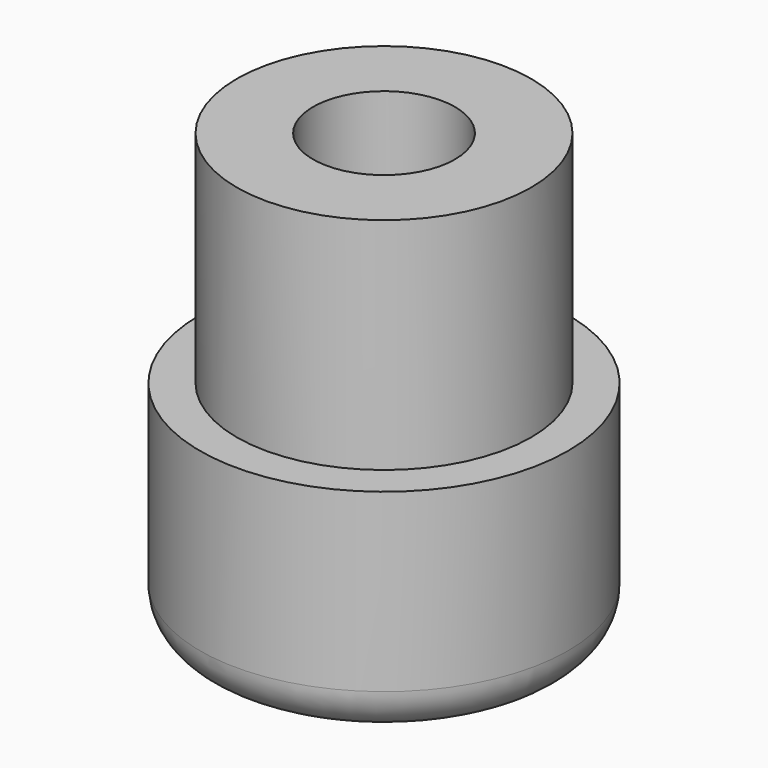
from build123d import *

# Parameters (mm, degrees)
F0_R      = 17
F1_DEPTH  = 25.4
F2_R      = 21.25
F3_DEPTH  = 25.4
F4_R      = 8.2
F5_DEPTH  = 87.884
F6_W      = 27.94
F6_H      = 6.731
F7_DEPTH  = 25.4
F8_R      = 2.6
F9_DEPTH  = 16.002
F10_W     = 25.4
F10_H     = 6.35
F11_DEPTH = 13.716
F12_R     = 5.08


with BuildPart() as f1:
    # F0 (on Top) → F1 (new body)
    with BuildSketch(Plane.XY):
        Circle(F0_R)
    extrude(amount=F1_DEPTH)

    # F2 (on Top) → F3 (join)
    with BuildSketch(Plane.XY):
        Circle(F2_R)
    extrude(amount=-F3_DEPTH)

    # F4 (on face) → F5 (cut)
    with BuildSketch(Plane(origin=(0, 0, -25.4), x_dir=(1, 0, 0), z_dir=(0, 0, -1))):
        Circle(F4_R)
    extrude(amount=-F5_DEPTH, mode=Mode.SUBTRACT)

    # F6 (on Right) → F7 (cut)
    with BuildSketch(Plane.YZ):
        with Locations((0, -15.182626)):
            Rectangle(F6_W, F6_H)
    extrude(amount=-F7_DEPTH, mode=Mode.SUBTRACT)

    # F8 (on Right) → F9 (cut)
    with BuildSketch(Plane.YZ):
        with Locations((0, -14.992126)):
            Circle(F8_R)
    extrude(amount=F9_DEPTH, mode=Mode.SUBTRACT)

    # F10 (on Right) → F11 (cut)
    with BuildSketch(Plane.YZ):
        with Locations((0, -15.373126)):
            Rectangle(F10_W, F10_H)
    extrude(amount=F11_DEPTH, mode=Mode.SUBTRACT)

    # F12
    f12_edges = [f1.edges().sort_by_distance(p)[0] for p in [
        (-21.25, 0, -25.4),
    ]]
    fillet(f12_edges, radius=F12_R)


solid = f1.part
